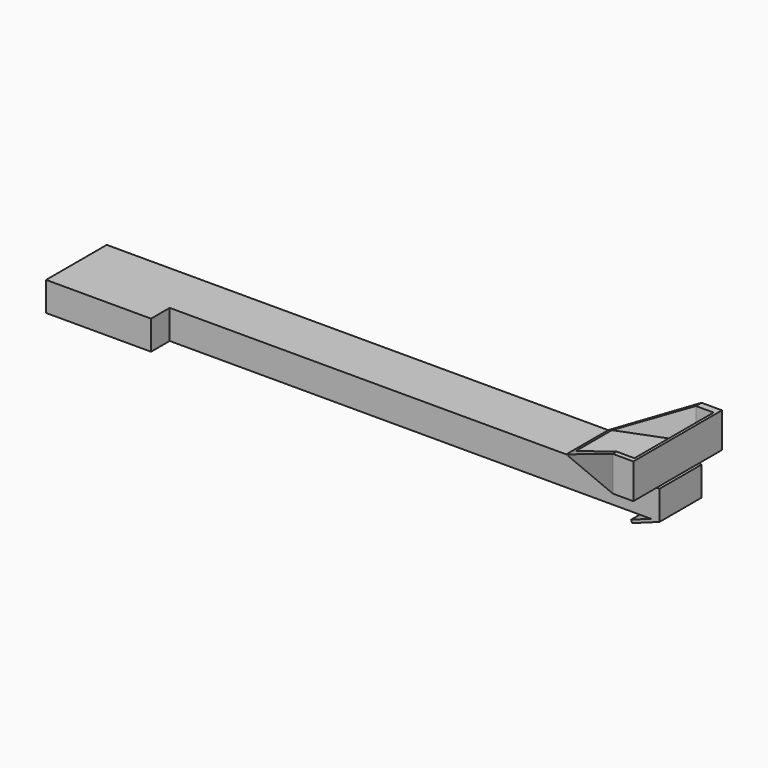
from build123d import *

# Parameters (mm, degrees)
F0_W      = 5181.6
F0_H      = 457.2
F1_DEPTH  = 254
F2_W      = 914.4
F2_H      = 254
F3_DEPTH  = 203.2
F6_DEPTH  = 965.2
F8_DEPTH  = 558.801
F9_W      = 154.1635910034
F9_H      = 861.4985744241
F10_DEPTH = 279.4
F12_W     = 254
F12_H     = 457.2
F13_DEPTH = 25.4


with BuildPart() as f1:
    # F0 (on Top) → F1 (new body)
    with BuildSketch(Plane.XY):
        with Locations((2590.8, 228.6)):
            Rectangle(F0_W, F0_H)
    extrude(amount=F1_DEPTH)

    # F2 (on face) → F3 (join)
    with BuildSketch(Plane.XZ):
        with Locations((457.2, 127)):
            Rectangle(F2_W, F2_H)
    extrude(amount=F3_DEPTH)

    # F5 (on offset) → F6 (join)
    with BuildSketch(Plane.XZ.offset(254)):
        Polygon((4368.8, 254), (5156.2, 254), (5156.2, 558.8), (4978.4, 558.8), align=None)
    extrude(amount=-F6_DEPTH)

    # F7 (on face) → F8 (cut, through all)
    with BuildSketch(Plane.XY.offset(558.8)):
        Polygon((4978.4, 711.2), (4368.8, 711.2), (4368.8, 457.2), align=None)
        Polygon((4368.8, -254), (4978.4, -254), (4368.8, 0), align=None)
    extrude(amount=-F8_DEPTH, mode=Mode.SUBTRACT)

    # F9 (on face) → F10 (cut, through all)
    with BuildSketch(Plane.XY.offset(558.8)):
        Polygon((4978.4, -211.2931162119), (4978.4, 650.2054582122), (4409.4405174255, 430.9031367302), (4409.4405174255, 47.1517108381), align=None)
        with Locations((5055.4817955017, 219.4561710002)):
            Rectangle(F9_W, F9_H)
    extrude(amount=-F10_DEPTH, mode=Mode.SUBTRACT)

    # F12 (on face) → F13 (join)
    with BuildSketch(Plane(origin=(606.1320567674, 0, -1665.3341391759), x_dir=(0.9396926208, 0, 0.3420201433), z_dir=(-0.3420201433, 0, 0.9396926208))):
        with Locations((4742.1112838643, 228.6)):
            Rectangle(F12_W, F12_H)
    extrude(amount=F13_DEPTH)


solid = f1.part
